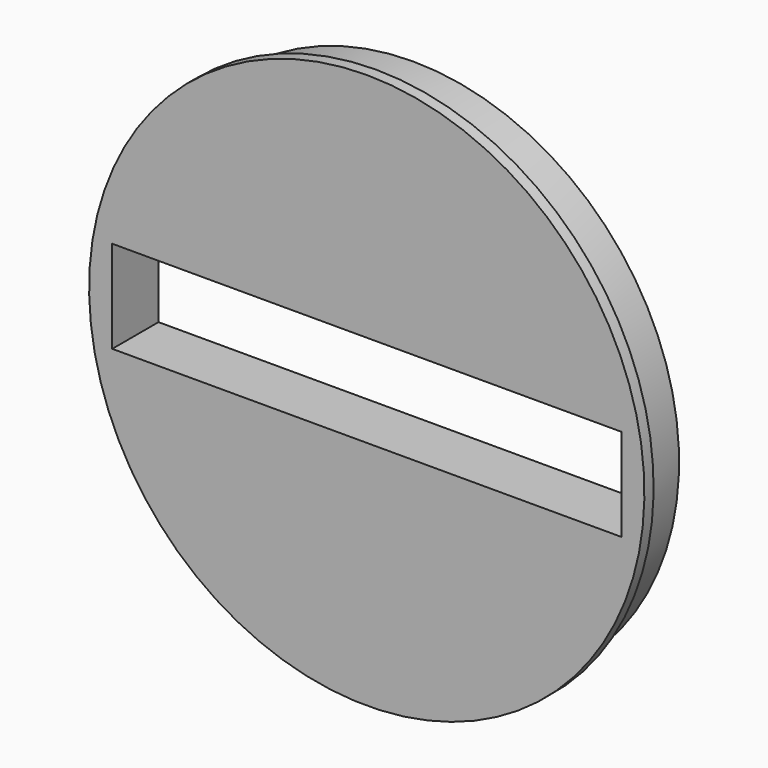
from build123d import *

# Parameters (mm, degrees)
F2_W     = 279.4
F2_H     = 50.8
F3_DEPTH = 31.751


with BuildPart() as f1:
    # F0 (on Right) → F1 (revolve)
    with BuildSketch(Plane.YZ):
        Polygon((0, 152.4), (0, 0), (31.75, 0), (31.75, 146.05), (6.35, 146.05), (6.35, 152.4), align=None)
    revolve(axis=Axis((0, 59.051867, 0), (0, 1, 0)))

    # F2 (on face) → F3 (cut, through all)
    with BuildSketch(Plane.XZ):
        Rectangle(F2_W, F2_H)
    extrude(amount=-F3_DEPTH, mode=Mode.SUBTRACT)


solid = f1.part
